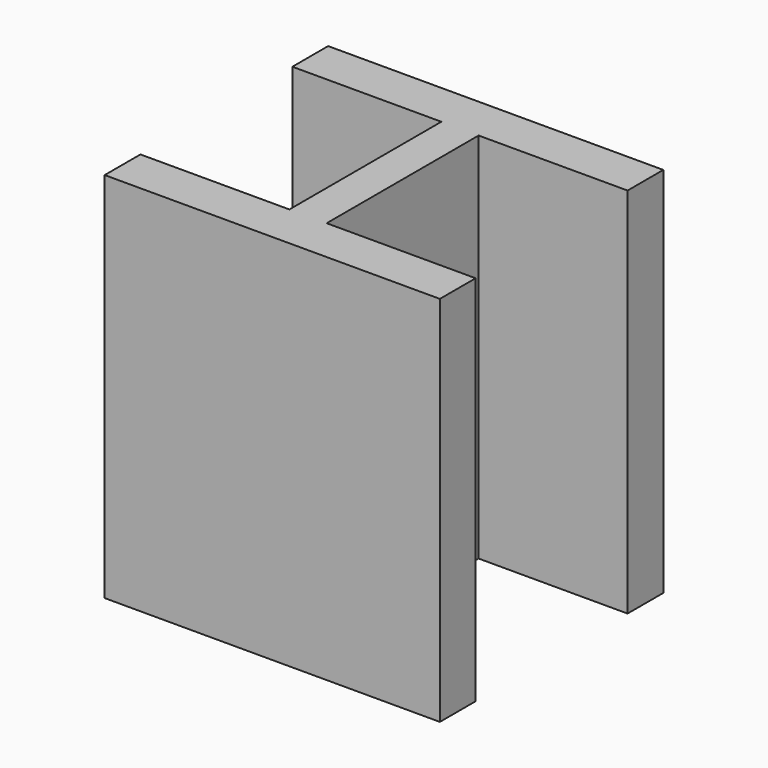
from build123d import *

# Parameters (mm, degrees)
PAD_DEPTH = 100


with BuildPart() as part:
    # Sketch → Pad (new body)
    with BuildSketch(Plane.XY):
        Polygon((0, 75), (90, 75), (90, 63), (50, 63), (50, 12), (90, 12), (90, 0), (0, 0), (0, 12), (40, 12), (40, 63), (0, 63), align=None)
    extrude(amount=PAD_DEPTH)


solid = part.part
